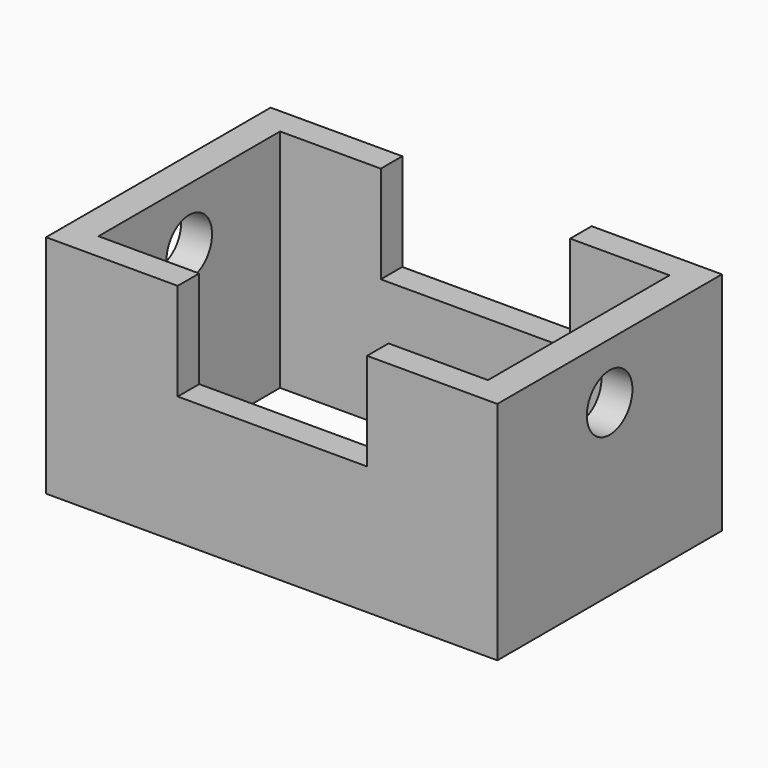
from build123d import *

# Parameters (mm, degrees)
F0_W     = 109.156876
F0_H     = 67.89817
F0_W_2   = 94.212786
F0_H_2   = 54.903298
F1_DEPTH = 54.61
F2_W     = 45.806905
F2_H     = 23.568978
F3_DEPTH = 67.899169
F4_R     = 6.891568
F5_DEPTH = 109.157877


with BuildPart() as f1:
    # F0 (on Top) → F1 (new body)
    with BuildSketch(Plane.XY):
        Rectangle(F0_W, F0_H)
        Rectangle(F0_W_2, F0_H_2, mode=Mode.SUBTRACT)
    extrude(amount=F1_DEPTH)

    # F2 (on face) → F3 (cut, through all)
    with BuildSketch(Plane.XZ.offset(33.949085)):
        with Locations((0.162437, 42.825511)):
            Rectangle(F2_W, F2_H)
    extrude(amount=-F3_DEPTH, mode=Mode.SUBTRACT)

    # F4 (on face) → F5 (cut, through all)
    with BuildSketch(Plane.YZ.offset(54.578438)):
        with Locations((0, 41.11205)):
            Circle(F4_R)
    extrude(amount=-F5_DEPTH, mode=Mode.SUBTRACT)


solid = f1.part
